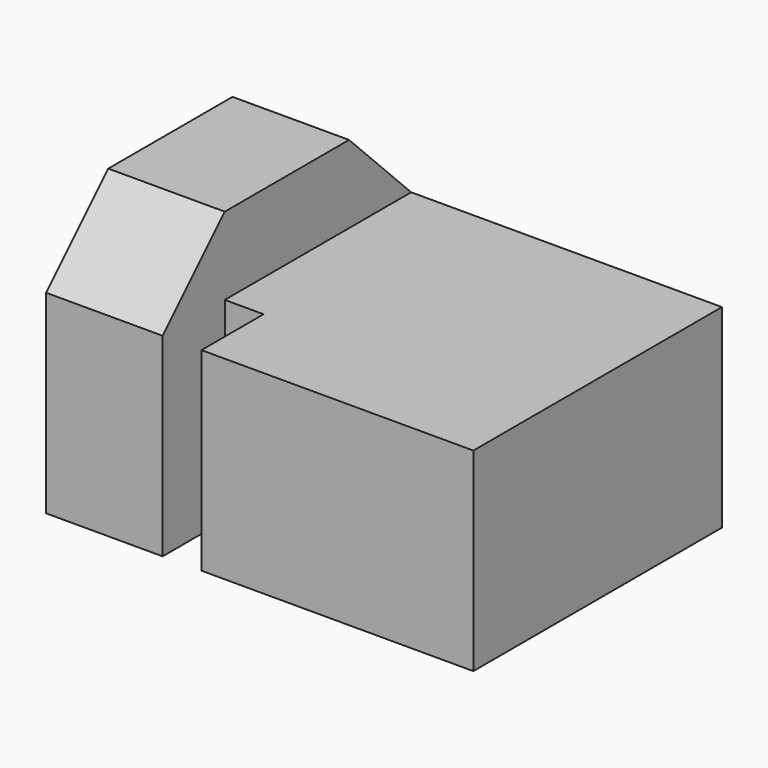
from build123d import *

# Parameters (mm, degrees)
F0_W     = 34.925
F0_H     = 22.225
F1_DEPTH = 12.7
F3_DEPTH = 34.926
F5_DEPTH = 25.4
F7_DEPTH = 34.926
F8_W     = 3.175
F8_H     = 6.35
F9_DEPTH = 15.876


with BuildPart() as f1:
    # F0 (on Front) → F1 (new body, symmetric)
    with BuildSketch(Plane.XZ):
        with Locations((17.4625, 11.1125)):
            Rectangle(F0_W, F0_H)
    extrude(amount=F1_DEPTH, both=True)

    # F2 (on face) → F3 (cut, through all)
    with BuildSketch(Plane(origin=(0, 0, 0), x_dir=(0, -1, 0), z_dir=(-1, 0, 0))):
        Polygon((12.7, 15.875), (12.7, 22.225), (6.35, 22.225), align=None)
    extrude(amount=-F3_DEPTH, mode=Mode.SUBTRACT)

    # F4 (on face) → F5 (cut)
    with BuildSketch(Plane.YZ.offset(34.925)):
        Polygon((-6.35, 22.225), (-12.7, 15.875), (12.7, 15.875), (12.7, 22.225), align=None)
    extrude(amount=-F5_DEPTH, mode=Mode.SUBTRACT)

    # F6 (on face) → F7 (cut, through all)
    with BuildSketch(Plane(origin=(0, 0, 0), x_dir=(0, -1, 0), z_dir=(-1, 0, 0))):
        Polygon((-6.35, 22.225), (-12.7, 22.225), (-12.7, 15.875), align=None)
    extrude(amount=-F7_DEPTH, mode=Mode.SUBTRACT)

    # F8 (on face) → F9 (cut, through all)
    with BuildSketch(Plane.XY.offset(15.875)):
        with Locations((11.1125, -9.525)):
            Rectangle(F8_W, F8_H)
    extrude(amount=-F9_DEPTH, mode=Mode.SUBTRACT)


solid = f1.part
